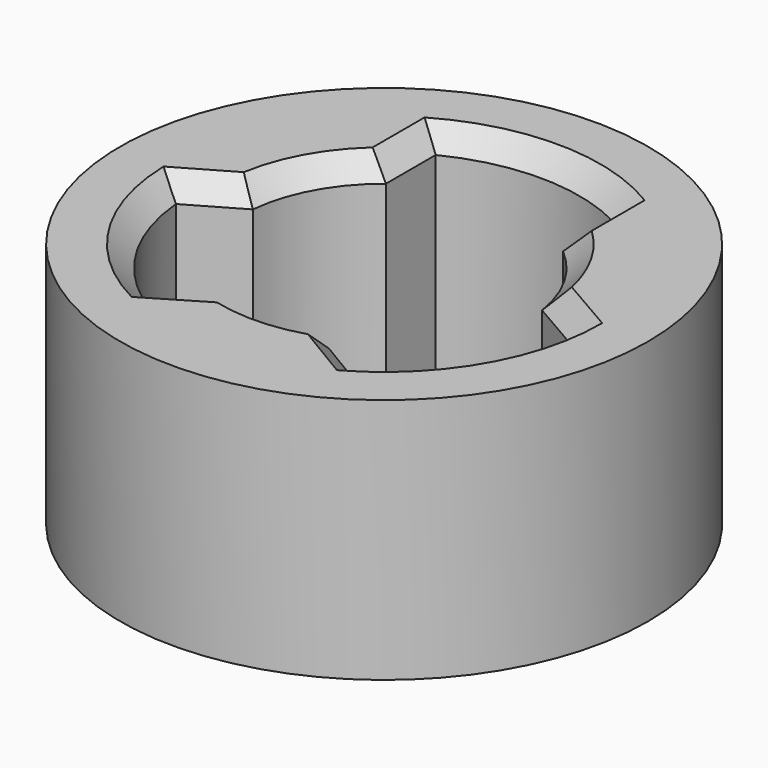
from build123d import *

# Parameters (mm, degrees)
SKETCH_R     = 7.5
PAD_DEPTH    = 7
CHAMFER_SIZE = 0.6


with BuildPart() as part:
    # Sketch → Pad (new body)
    with BuildSketch(Plane.XY):
        Circle(SKETCH_R)
        with BuildLine():
            ThreePointArc((-2.5, 3.186299), (-3.554582, 1.940992), (-4.03208, 0.380567))
            Line((-5.528888, -0.483634), (-4.03208, 0.380567))
            ThreePointArc((-5.528888, -0.483634), (-4.688541, -2.969863), (-2.799824, -4.792023))
            Line((-1.232265, -3.857982), (-2.799824, -4.792023))
            ThreePointArc((-1.232265, -3.857982), (0.117665, -4.04829), (1.454262, -3.779897))
            Line((2.970351, -4.688232), (1.454262, -3.779897))
            ThreePointArc((2.970351, -4.688232), (4.792314, -2.799326), (5.542704, -0.284484))
            Line((4.004681, 0.604177), (5.542704, -0.284484))
            ThreePointArc((4.004681, 0.604177), (3.531103, 1.983384), (2.599739, 3.105456))
            Line((2.599739, 3.105456), (2.599739, 4.903454))
            ThreePointArc((2.599739, 4.903454), (0.056147, 5.549716), (-2.5, 4.955048))
            Line((-2.5, 3.186299), (-2.5, 4.955048))
        make_face(mode=Mode.SUBTRACT)
    extrude(amount=PAD_DEPTH)

    # Chamfer
    chamfer_edges = [part.edges().sort_by_distance(p)[0] for p in [
        (-3.554582, 1.940992, 7),
        (-4.780484, -0.051534, 7),
        (-4.688541, -2.969863, 7),
        (-2.016045, -4.325002, 7),
        (0.117665, -4.04829, 7),
        (2.212306, -4.234064, 7),
        (4.792314, -2.799326, 7),
        (4.773693, 0.159847, 7),
        (3.531103, 1.983384, 7),
        (2.599739, 4.004455, 7),
        (0.056147, 5.549716, 7),
        (-2.5, 4.070673, 7),
    ]]
    chamfer(chamfer_edges, length=CHAMFER_SIZE)


solid = part.part
